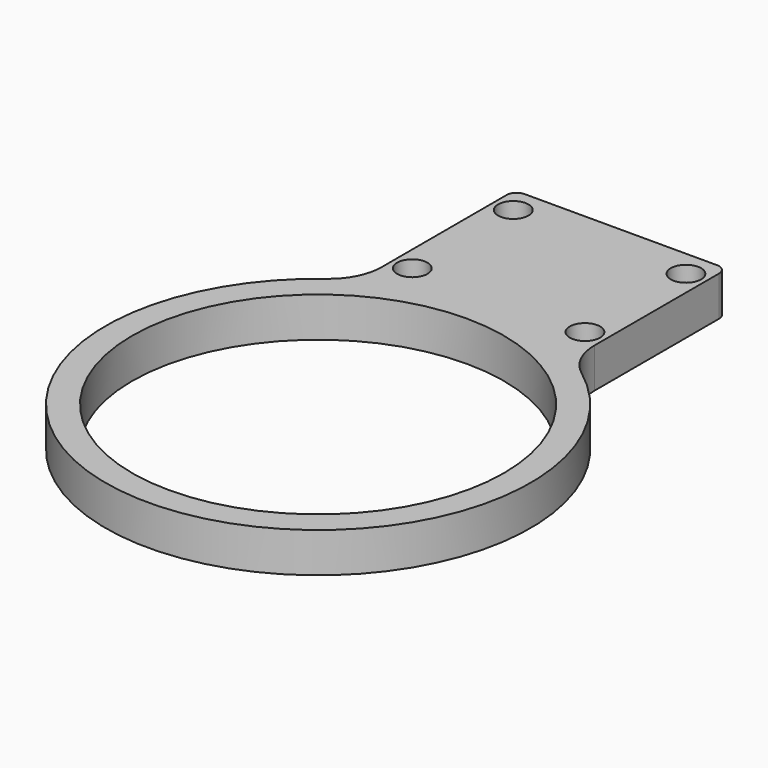
from build123d import *

# Parameters (mm, degrees)
F0_R     = 44.45
F1_DEPTH = 9.525
F2_R     = 2.0828
F3_DEPTH = 25.4
F4_R     = 3.6322
F5_DEPTH = 4.1656
F6_R     = 2.38125
F7_R     = 12.7


with BuildPart() as f1:
    # F0 (on Top) → F1 (new body)
    with BuildSketch(Plane.XY):
        with BuildLine():
            Line((-25.4, 90.4875), (-25.4, 43.994091))
            ThreePointArc((-25.4, 43.994091), (0, -50.8), (25.4, 43.994091))
            Line((25.4, 43.994091), (25.4, 90.4875))
            Line((25.4, 90.4875), (-25.4, 90.4875))
        make_face()
        Circle(F0_R, mode=Mode.SUBTRACT)
    extrude(amount=F1_DEPTH)

    # F2 (on face) → F3 (cut)
    with BuildSketch(Plane.XY.offset(9.525)):
        with Locations((-20.6375, 84.1375)):
            Circle(F2_R)
        with Locations((20.6375, 84.1375)):
            Circle(F2_R)
        with Locations((20.6375, 53.9623)):
            Circle(F2_R)
        with Locations((-20.6375, 53.9623)):
            Circle(F2_R)
    extrude(amount=-F3_DEPTH, mode=Mode.SUBTRACT)

    # F4 (on face) → F5 (cut)
    with BuildSketch(Plane.XY.offset(9.525)):
        with Locations((-20.6375, 84.1375)):
            Circle(F4_R)
        with Locations((20.6375, 84.1375)):
            Circle(F4_R)
        with Locations((20.6375, 53.9623)):
            Circle(F4_R)
        with Locations((-20.6375, 53.9623)):
            Circle(F4_R)
    extrude(amount=-F5_DEPTH, mode=Mode.SUBTRACT)

    # F6
    f6_edges = [f1.edges().sort_by_distance(p)[0] for p in [
        (-25.4, 90.4875, 4.7625),
        (25.4, 90.4875, 4.7625),
    ]]
    fillet(f6_edges, radius=F6_R)

    # F7
    f7_edges = [f1.edges().sort_by_distance(p)[0] for p in [
        (-25.4, 43.994091, 4.7625),
        (25.4, 43.994091, 4.7625),
    ]]
    fillet(f7_edges, radius=F7_R)


solid = f1.part
